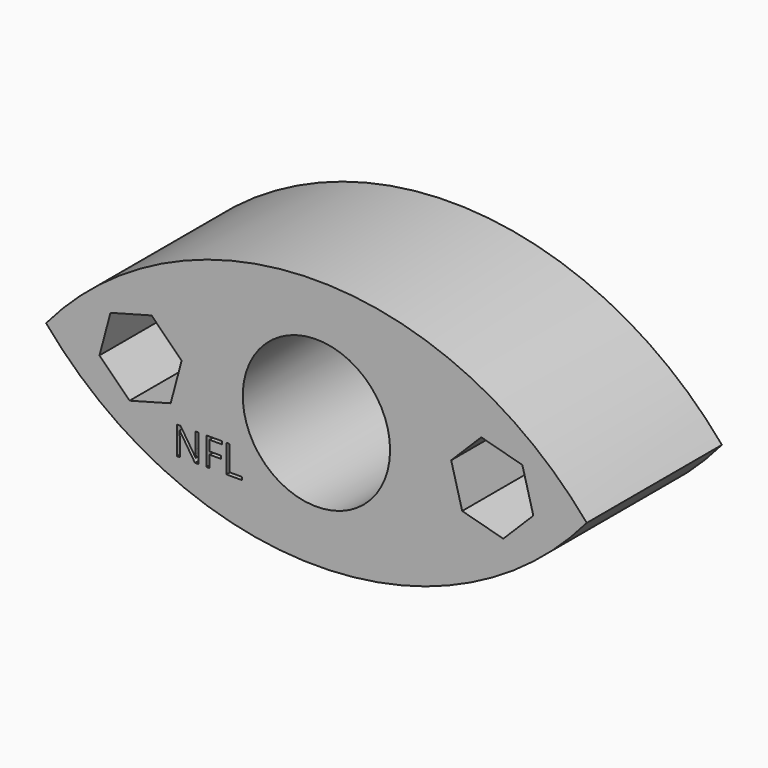
from build123d import *

# Parameters (mm, degrees)
F0_R     = 10.9
F1_DEPTH = 7
F2_DEPTH = 25


with BuildPart() as f1:
    # F0 (on Front) → F1 (new body)
    with BuildSketch(Plane.XZ):
        with BuildLine():
            ThreePointArc((-40, 0), (0, -18.5892663444), (40, 0))
            ThreePointArc((40, 0), (0, 18.5892663444), (-40, 0))
        make_face()
        with BuildLine():
            Line((-17.4249970611, -6.9019849301), (-17.4249970611, -11.0289836302))
            Line((-17.4249970611, -11.0289836302), (-17.9723731198, -11.0289836302))
            Line((-17.9723731198, -11.0289836302), (-20.2278153948, -7.5658816349))
            Line((-20.2278153948, -7.5658816349), (-20.2503969154, -7.5658816349))
            add(Edge.make_bspline(
                [(-20.2503969154, -7.5658816349), (-20.2052338742, -8.1755826905), (-20.2052338742, -8.683215273)],
                knots=[0, 0, 0, 1, 1, 1], degree=2))
            Line((-20.2052338742, -8.683215273), (-20.2052338742, -11.0289836302))
            Line((-20.2052338742, -11.0289836302), (-20.6487349383, -11.0289836302))
            Line((-20.6487349383, -11.0289836302), (-20.6487349383, -6.9019849301))
            Line((-20.6487349383, -6.9019849301), (-20.1067784445, -6.9019849301))
            Line((-20.1067784445, -6.9019849301), (-17.8567557345, -10.351538013))
            Line((-17.8567557345, -10.351538013), (-17.8341742139, -10.351538013))
            add(Edge.make_bspline(
                [(-17.8341742139, -10.351538013), (-17.8395937789, -10.2756641039), (-17.859465517, -9.861970647)],
                knots=[0, 0, 0, 1, 1, 1], degree=2))
            add(Edge.make_bspline(
                [(-17.859465517, -9.861970647), (-17.8793372551, -9.44827719), (-17.8739176901, -9.2703348079)],
                knots=[0, 0, 0, 1, 1, 1], degree=2))
            Line((-17.8739176901, -9.2703348079), (-17.8739176901, -6.9019849301))
            Line((-17.8739176901, -6.9019849301), (-17.4249970611, -6.9019849301))
        make_face(mode=Mode.SUBTRACT)
        Polygon((-15.8108699705, -9.264915243), (-15.8108699705, -11.0289836302), (-16.2905014675, -11.0289836302), (-16.2905014675, -6.9019849301), (-13.9898961513, -6.9019849301), (-13.9898961513, -7.3283240385), (-15.8108699705, -7.3283240385), (-15.8108699705, -8.8385761345), (-14.1000939717, -8.8385761345), (-14.1000939717, -9.264915243), align=None, mode=Mode.SUBTRACT)
        Polygon((-11.006425653, -11.0289836302), (-13.3070309692, -11.0289836302), (-13.3070309692, -6.9019849301), (-12.8273994722, -6.9019849301), (-12.8273994722, -10.5945151744), (-11.006425653, -10.5945151744), align=None, mode=Mode.SUBTRACT)
        Polygon((-21.5666932822, -4.4473129641), (-27.6444284164, -6.0796330833), (-32.0969266739, -1.6323201193), (-30.4716897972, 4.4473129641), (-24.393954663, 6.0796330833), (-19.9414564055, 1.6323201193), align=None, mode=Mode.SUBTRACT)
        Circle(F0_R, mode=Mode.SUBTRACT)
        Polygon((32.0969266739, -1.6323201193), (27.6444284164, -6.0796330833), (21.5666932822, -4.4473129641), (19.9414564055, 1.6323201193), (24.393954663, 6.0796330833), (30.4716897972, 4.4473129641), align=None, mode=Mode.SUBTRACT)
    extrude(amount=F1_DEPTH)

    # F0 (on Front) → F2 (join)
    with BuildSketch(Plane.XZ):
        with BuildLine():
            ThreePointArc((-40, 0), (0, -18.5892663444), (40, 0))
            ThreePointArc((40, 0), (0, 18.5892663444), (-40, 0))
        make_face()
        with BuildLine():
            Line((-17.4249970611, -6.9019849301), (-17.4249970611, -11.0289836302))
            Line((-17.4249970611, -11.0289836302), (-17.9723731198, -11.0289836302))
            Line((-17.9723731198, -11.0289836302), (-20.2278153948, -7.5658816349))
            Line((-20.2278153948, -7.5658816349), (-20.2503969154, -7.5658816349))
            add(Edge.make_bspline(
                [(-20.2503969154, -7.5658816349), (-20.2052338742, -8.1755826905), (-20.2052338742, -8.683215273)],
                knots=[0, 0, 0, 1, 1, 1], degree=2))
            Line((-20.2052338742, -8.683215273), (-20.2052338742, -11.0289836302))
            Line((-20.2052338742, -11.0289836302), (-20.6487349383, -11.0289836302))
            Line((-20.6487349383, -11.0289836302), (-20.6487349383, -6.9019849301))
            Line((-20.6487349383, -6.9019849301), (-20.1067784445, -6.9019849301))
            Line((-20.1067784445, -6.9019849301), (-17.8567557345, -10.351538013))
            Line((-17.8567557345, -10.351538013), (-17.8341742139, -10.351538013))
            add(Edge.make_bspline(
                [(-17.8341742139, -10.351538013), (-17.8395937789, -10.2756641039), (-17.859465517, -9.861970647)],
                knots=[0, 0, 0, 1, 1, 1], degree=2))
            add(Edge.make_bspline(
                [(-17.859465517, -9.861970647), (-17.8793372551, -9.44827719), (-17.8739176901, -9.2703348079)],
                knots=[0, 0, 0, 1, 1, 1], degree=2))
            Line((-17.8739176901, -9.2703348079), (-17.8739176901, -6.9019849301))
            Line((-17.8739176901, -6.9019849301), (-17.4249970611, -6.9019849301))
        make_face(mode=Mode.SUBTRACT)
        Polygon((-15.8108699705, -9.264915243), (-15.8108699705, -11.0289836302), (-16.2905014675, -11.0289836302), (-16.2905014675, -6.9019849301), (-13.9898961513, -6.9019849301), (-13.9898961513, -7.3283240385), (-15.8108699705, -7.3283240385), (-15.8108699705, -8.8385761345), (-14.1000939717, -8.8385761345), (-14.1000939717, -9.264915243), align=None, mode=Mode.SUBTRACT)
        Polygon((-11.006425653, -11.0289836302), (-13.3070309692, -11.0289836302), (-13.3070309692, -6.9019849301), (-12.8273994722, -6.9019849301), (-12.8273994722, -10.5945151744), (-11.006425653, -10.5945151744), align=None, mode=Mode.SUBTRACT)
        Polygon((-21.5666932822, -4.4473129641), (-27.6444284164, -6.0796330833), (-32.0969266739, -1.6323201193), (-30.4716897972, 4.4473129641), (-24.393954663, 6.0796330833), (-19.9414564055, 1.6323201193), align=None, mode=Mode.SUBTRACT)
        Circle(F0_R, mode=Mode.SUBTRACT)
        Polygon((32.0969266739, -1.6323201193), (27.6444284164, -6.0796330833), (21.5666932822, -4.4473129641), (19.9414564055, 1.6323201193), (24.393954663, 6.0796330833), (30.4716897972, 4.4473129641), align=None, mode=Mode.SUBTRACT)
    extrude(amount=F2_DEPTH)


solid = f1.part
